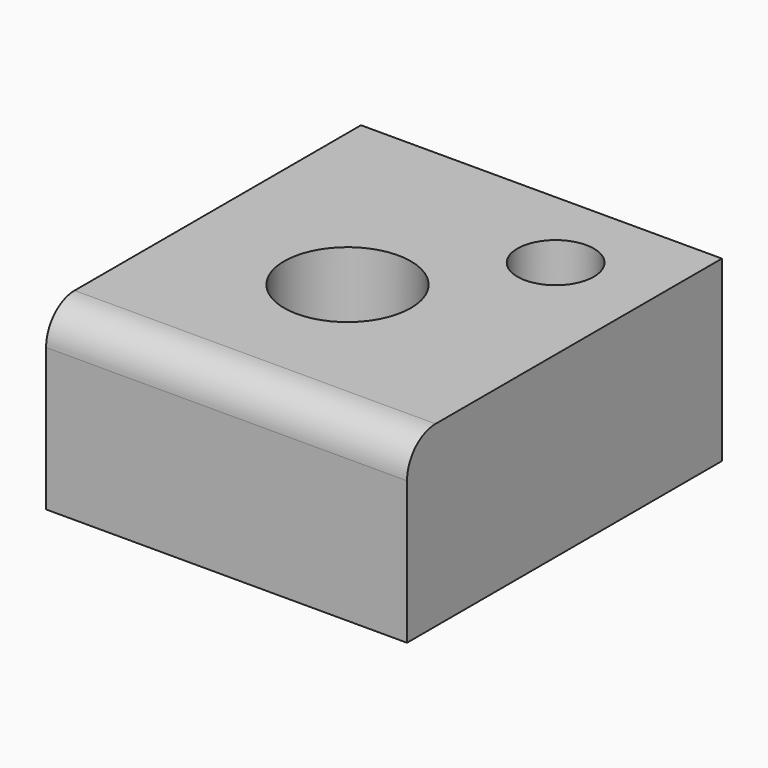
from build123d import *

# Parameters (mm, degrees)
F0_W     = 51.435865
F0_H     = 56.08698
F0_R     = 9.032777
F0_R_2   = 5.443403
F1_DEPTH = 25.4
F2_R     = 5.08


with BuildPart() as f1:
    # F0 (on Top) → F1 (new body)
    with BuildSketch(Plane.XY):
        with Locations((25.717932, -28.04349)):
            Rectangle(F0_W, F0_H)
        with Locations((22.827962, -30.93346)):
            Circle(F0_R, mode=Mode.SUBTRACT)
        with Locations((37.602093, -12.328999)):
            Circle(F0_R_2, mode=Mode.SUBTRACT)
    extrude(amount=F1_DEPTH)

    # F2
    f2_edges = [f1.edges().sort_by_distance(p)[0] for p in [
        (25.717933, -56.08698, 25.4),
    ]]
    fillet(f2_edges, radius=F2_R)


solid = f1.part
